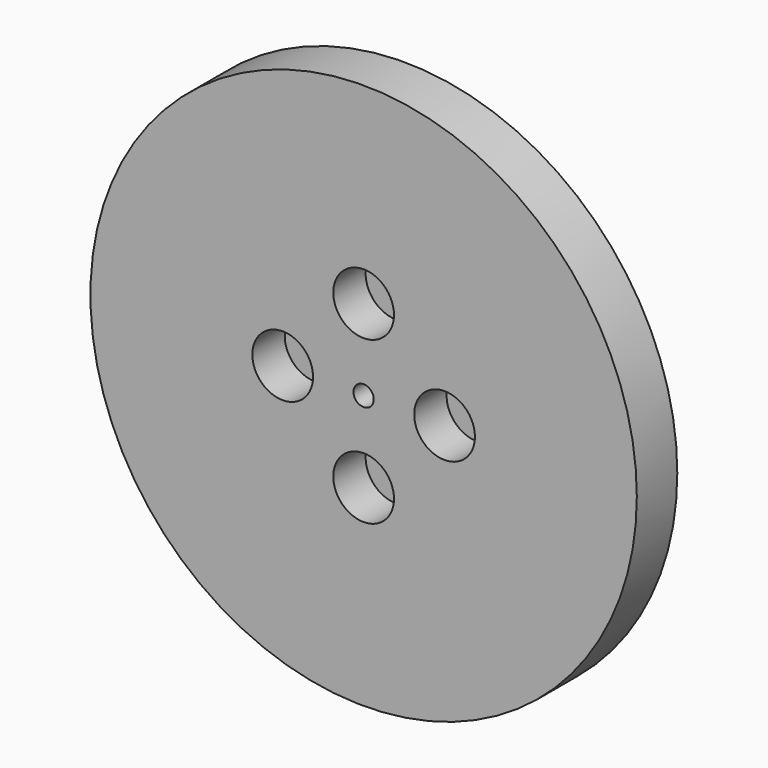
from build123d import *

# Parameters (mm, degrees)
F0_R     = 171.45
F0_R_2   = 19.05
F0_R_3   = 6.35
F1_DEPTH = 31.75
F2_DEPTH = 6.35


with BuildPart() as f1:
    # F0 (on Front) → F1 (new body)
    with BuildSketch(Plane.XZ):
        Circle(F0_R)
        with Locations((0, -50.8)):
            Circle(F0_R_2, mode=Mode.SUBTRACT)
        with Locations((-50.8, 0)):
            Circle(F0_R_2, mode=Mode.SUBTRACT)
        Circle(F0_R_3, mode=Mode.SUBTRACT)
        with Locations((50.8, 0)):
            Circle(F0_R_2, mode=Mode.SUBTRACT)
        with Locations((0, 50.8)):
            Circle(F0_R_2, mode=Mode.SUBTRACT)
    extrude(amount=F1_DEPTH)

    # F0 (on Front) → F2 (join)
    with BuildSketch(Plane.XZ):
        with Locations((0, 50.8)):
            Circle(F0_R_2)
        with Locations((50.8, 0)):
            Circle(F0_R_2)
        with Locations((-50.8, 0)):
            Circle(F0_R_2)
        with Locations((0, -50.8)):
            Circle(F0_R_2)
    extrude(amount=F2_DEPTH)


solid = f1.part
